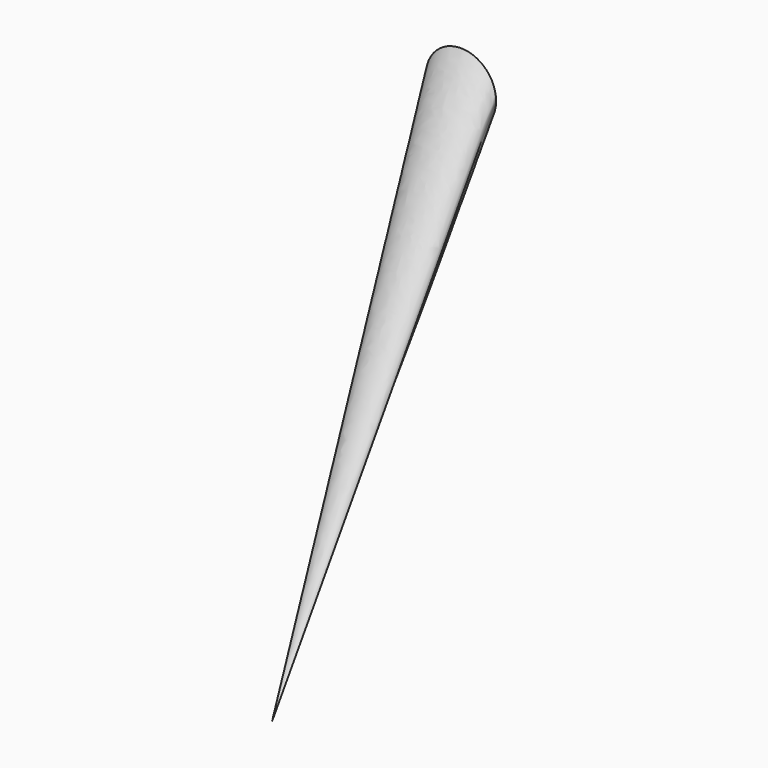
from build123d import *

# Parameters (mm, degrees)
F0_R = 3.303288


with BuildPart() as f3:
    # F0 (on Front) → F3 section 0
    with BuildSketch(Plane.XZ, mode=Mode.PRIVATE) as f3_s0:
        with Locations((-52.825786, 62.026456)):
            Circle(F0_R)
    loft([f3_s0.sketch, Vertex(-50.274011, -25.4, 20.730628)])


solid = f3.part
